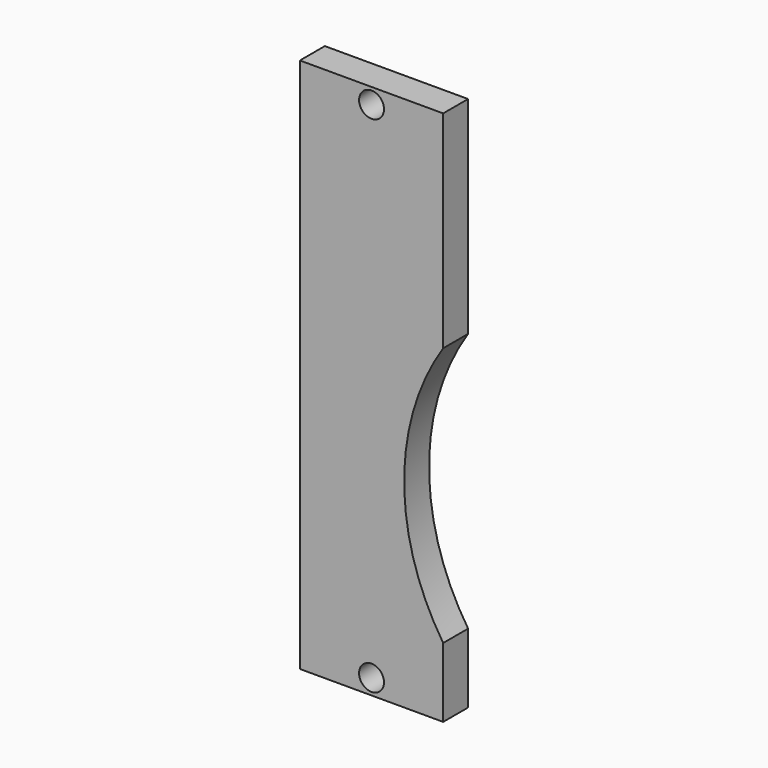
from build123d import *

# Parameters (mm, degrees)
F0_W     = 11.5
F0_H     = 2.5
F1_DEPTH = 43
F2_R     = 1
F3_DEPTH = 25
F5_DEPTH = 25


with BuildPart() as f1:
    # F0 (on Top) → F1 (new body)
    with BuildSketch(Plane.XY):
        Rectangle(F0_W, F0_H)
        Rectangle(F0_W, F0_H)
    extrude(amount=F1_DEPTH)

    # F2 (on face) → F3 (cut)
    with BuildSketch(Plane(origin=(0, 1.25, 0), x_dir=(-1, 0, 0), z_dir=(0, 1, 0))):
        with Locations((0, 1.25)):
            Circle(F2_R)
        with Locations((0, 41.75)):
            Circle(F2_R)
    extrude(amount=-F3_DEPTH, mode=Mode.SUBTRACT)

    # F4 (on face) → F5 (cut)
    with BuildSketch(Plane(origin=(0, 1.25, 0), x_dir=(-1, 0, 0), z_dir=(0, 1, 0))):
        with BuildLine():
            Line((-5.75, 26.404966), (-5.75, 5.576983))
            ThreePointArc((-5.75, 5.576983), (-2.61855, 15.990974), (-5.75, 26.404966))
        make_face()
    extrude(amount=-F5_DEPTH, mode=Mode.SUBTRACT)


solid = f1.part
